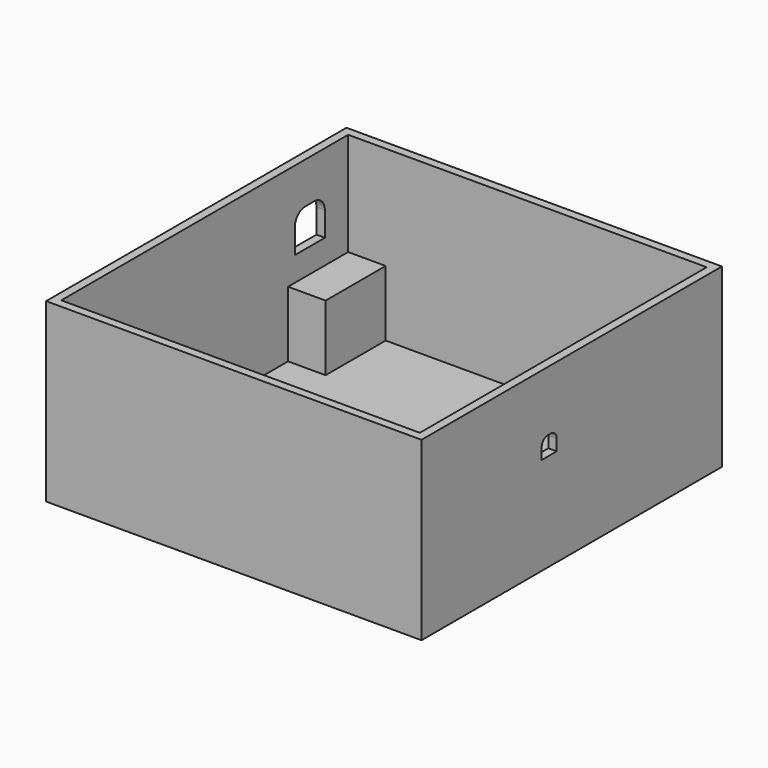
from build123d import *

# Parameters (mm, degrees)
F1_W      = 200
F1_H      = 200
F1_W_2    = 191
F1_H_2    = 191
F2_DEPTH  = 94
F0_W      = 191
F0_H      = 191
F3_DEPTH  = 4
F6_W      = 20
F6_H      = 40
F9_DEPTH  = 35
F5_W      = 20
F5_H      = 40
F10_DEPTH = 35
F8_W      = 20
F8_H      = 40
F11_DEPTH = 35
F7_W      = 20
F7_H      = 40
F12_DEPTH = 35
F14_DEPTH = 25
F16_DEPTH = 25


with BuildPart() as f2:
    # F1 (on face) → F2 (new body)
    with BuildSketch(Plane.XY):
        Rectangle(F1_W, F1_H)
        Rectangle(F1_W_2, F1_H_2, mode=Mode.SUBTRACT)
    extrude(amount=F2_DEPTH)

    # F0 (on Top) → F3 (join)
    with BuildSketch(Plane.XY):
        Rectangle(F0_W, F0_H)
    extrude(amount=F3_DEPTH)

    # F6 (on offset) → F9 (join)
    with BuildSketch(Plane.XY.offset(39)):
        with Locations((-85.5, 75.5)):
            Rectangle(F6_W, F6_H)
    extrude(amount=-F9_DEPTH)

    # F5 (on offset) → F10 (join)
    with BuildSketch(Plane.XY.offset(39)):
        with Locations((-85.5, -75.5)):
            Rectangle(F5_W, F5_H)
    extrude(amount=-F10_DEPTH)

    # F8 (on offset) → F11 (join)
    with BuildSketch(Plane.XY.offset(39)):
        with Locations((85.5, -75.5)):
            Rectangle(F8_W, F8_H)
    extrude(amount=-F11_DEPTH)

    # F7 (on offset) → F12 (join)
    with BuildSketch(Plane.XY.offset(39)):
        with Locations((85.5, 75.5)):
            Rectangle(F7_W, F7_H)
    extrude(amount=-F12_DEPTH)

    # F13 (on face) → F14 (cut)
    with BuildSketch(Plane(origin=(-100, 0, 0), x_dir=(0, -1, 0), z_dir=(-1, 0, 0))):
        with BuildLine():
            Line((-67, 72), (-73, 72))
            ThreePointArc((-73, 72), (-77.949747, 69.949747), (-80, 65))
            Line((-80, 65), (-80, 52))
            Line((-80, 52), (-60, 52))
            Line((-60, 52), (-60, 65))
            ThreePointArc((-60, 65), (-62.050253, 69.949747), (-67, 72))
        make_face()
    extrude(amount=-F14_DEPTH, mode=Mode.SUBTRACT)

    # F15 (on face) → F16 (cut)
    with BuildSketch(Plane.YZ.offset(100)):
        with BuildLine():
            Line((-14, 62), (-16, 62))
            ThreePointArc((-16, 62), (-18.828427, 60.828427), (-20, 58))
            Line((-20, 58), (-20, 52))
            Line((-20, 52), (-10, 52))
            Line((-10, 52), (-10, 58))
            ThreePointArc((-10, 58), (-11.171573, 60.828427), (-14, 62))
        make_face()
    extrude(amount=-F16_DEPTH, mode=Mode.SUBTRACT)


solid = f2.part
